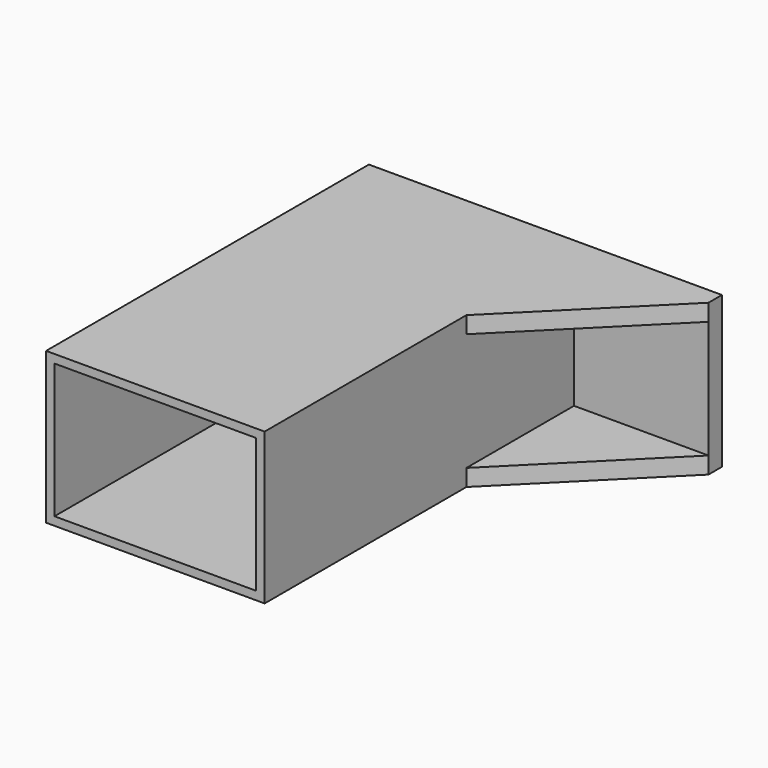
from build123d import *

# Parameters (mm, degrees)
F0_W     = 82.55
F0_H     = 57.15
F0_W_2   = 76.2
F0_H_2   = 50.8
F1_DEPTH = 152.4
F2_W     = 6.35
F2_H     = 57.15
F3_DEPTH = 50.8
F4_W     = 50.8
F4_H     = 6.35
F5_DEPTH = 50.8
F7_DEPTH = 118.618


with BuildPart() as f1:
    # F0 (on Front) → F1 (new body)
    with BuildSketch(Plane.XZ):
        with Locations((3.728271, -19.37303)):
            Rectangle(F0_W, F0_H)
        with Locations((3.728271, -19.37303)):
            Rectangle(F0_W_2, F0_H_2, mode=Mode.SUBTRACT)
    extrude(amount=F1_DEPTH)

    # F2 (on face) → F3 (join)
    with BuildSketch(Plane.YZ.offset(45.003271)):
        with Locations((-3.175, -19.37303)):
            Rectangle(F2_W, F2_H)
    extrude(amount=F3_DEPTH)

    # F4 (on face) → F5 (join)
    with BuildSketch(Plane.XZ.offset(6.35)):
        with Locations((70.403271, -44.77303)):
            Rectangle(F4_W, F4_H)
        with Locations((70.403271, 6.02697)):
            Rectangle(F4_W, F4_H)
    extrude(amount=F5_DEPTH)

    # F6 (on face) → F7 (cut)
    with BuildSketch(Plane.XY.offset(9.20197)):
        Polygon((95.803271, -6.35), (45.003271, -57.15), (95.803271, -57.15), align=None)
    extrude(amount=-F7_DEPTH, mode=Mode.SUBTRACT)


solid = f1.part
